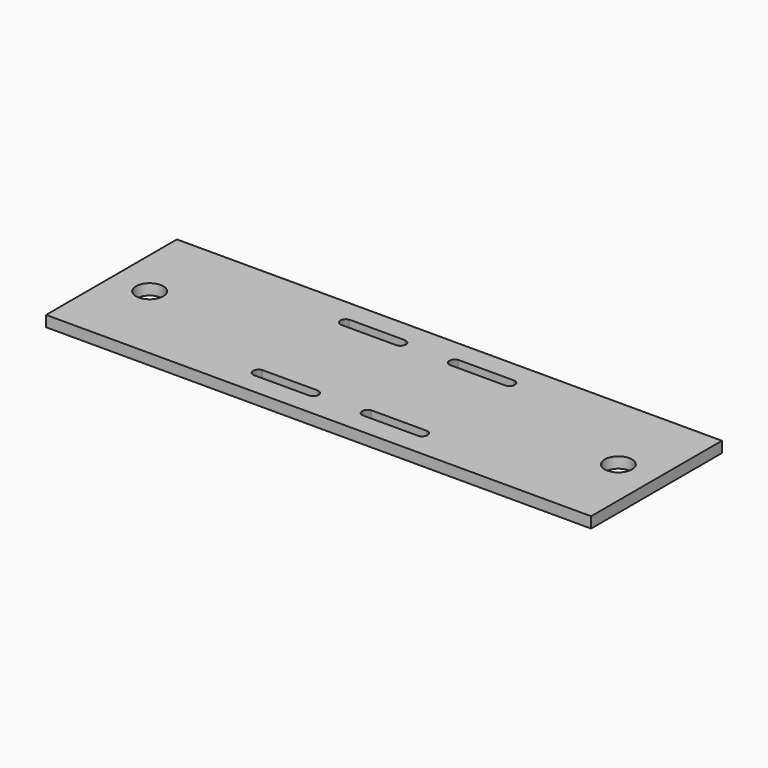
from build123d import *

# Parameters (mm, degrees)
PAD_DEPTH = 2


with BuildPart() as part:
    # Sketch → Pad (new body)
    with BuildSketch(Plane(origin=(0, 0, 0), x_dir=(-1, 0, 0), z_dir=(0, 0, 1))):
        with BuildLine():
            add(Edge.make_bspline(
                [(0, 0), (-100, 0)],
                knots=[0, 0, 100, 100], degree=1))
            add(Edge.make_bspline(
                [(-100, 0), (-100, 30)],
                knots=[0, 0, 30, 30], degree=1))
            add(Edge.make_bspline(
                [(-100, 30), (0, 30)],
                knots=[0, 0, 100, 100], degree=1))
            add(Edge.make_bspline(
                [(0, 30), (0, 0)],
                knots=[0, 0, 30, 30], degree=1))
        make_face()
        with BuildLine():
            add(Edge.make_bspline(
                [(-9.5, 15), (-9.5, 10.669873), (-5.75, 12.834936), (-2, 15), (-5.75, 17.165064), (-9.5, 19.330127), (-9.5, 15)],
                knots=[0, 0, 0, 2.094395, 2.094395, 4.18879, 4.18879, 6.283185, 6.283185, 6.283185], degree=2, weights=[1, 0.5, 1, 0.5, 1, 0.5, 1]))
        make_face(mode=Mode.SUBTRACT)
        with BuildLine():
            add(Edge.make_bspline(
                [(-95.5, 15), (-95.5, 10.669873), (-91.75, 12.834936), (-88, 15), (-91.75, 17.165064), (-95.5, 19.330127), (-95.5, 15)],
                knots=[0, 0, 0, 2.094395, 2.094395, 4.18879, 4.18879, 6.283185, 6.283185, 6.283185], degree=2, weights=[1, 0.5, 1, 0.5, 1, 0.5, 1]))
        make_face(mode=Mode.SUBTRACT)
        with BuildLine():
            add(Edge.make_bspline(
                [(-35, 6), (-34.9128, 5.9962)],
                knots=[0, 0, 0.087283, 0.087283], degree=1))
            add(Edge.make_bspline(
                [(-34.9128, 5.9962), (-34.8264, 5.9848)],
                knots=[0, 0, 0.087149, 0.087149], degree=1))
            add(Edge.make_bspline(
                [(-34.8264, 5.9848), (-34.7412, 5.9659)],
                knots=[0, 0, 0.087271, 0.087271], degree=1))
            add(Edge.make_bspline(
                [(-34.7412, 5.9659), (-34.658, 5.9397)],
                knots=[0, 0, 0.087228, 0.087228], degree=1))
            add(Edge.make_bspline(
                [(-34.658, 5.9397), (-34.5774, 5.9063)],
                knots=[0, 0, 0.087246, 0.087246], degree=1))
            add(Edge.make_bspline(
                [(-34.5774, 5.9063), (-34.5, 5.866)],
                knots=[0, 0, 0.087263, 0.087263], degree=1))
            add(Edge.make_bspline(
                [(-34.5, 5.866), (-34.4264, 5.8192)],
                knots=[0, 0, 0.087219, 0.087219], degree=1))
            add(Edge.make_bspline(
                [(-34.4264, 5.8192), (-34.3572, 5.766)],
                knots=[0, 0, 0.087286, 0.087286], degree=1))
            add(Edge.make_bspline(
                [(-34.3572, 5.766), (-34.2929, 5.7071)],
                knots=[0, 0, 0.087199, 0.087199], degree=1))
            add(Edge.make_bspline(
                [(-34.2929, 5.7071), (-34.234, 5.6428)],
                knots=[0, 0, 0.087199, 0.087199], degree=1))
            add(Edge.make_bspline(
                [(-34.234, 5.6428), (-34.1808, 5.5736)],
                knots=[0, 0, 0.087286, 0.087286], degree=1))
            add(Edge.make_bspline(
                [(-34.1808, 5.5736), (-34.134, 5.5)],
                knots=[0, 0, 0.087219, 0.087219], degree=1))
            add(Edge.make_bspline(
                [(-34.134, 5.5), (-34.0937, 5.4226)],
                knots=[0, 0, 0.087263, 0.087263], degree=1))
            add(Edge.make_bspline(
                [(-34.0937, 5.4226), (-34.0603, 5.342)],
                knots=[0, 0, 0.087246, 0.087246], degree=1))
            add(Edge.make_bspline(
                [(-34.0603, 5.342), (-34.0341, 5.2588)],
                knots=[0, 0, 0.087228, 0.087228], degree=1))
            add(Edge.make_bspline(
                [(-34.0341, 5.2588), (-34.0152, 5.1736)],
                knots=[0, 0, 0.087271, 0.087271], degree=1))
            add(Edge.make_bspline(
                [(-34.0152, 5.1736), (-34.0038, 5.0872)],
                knots=[0, 0, 0.087149, 0.087149], degree=1))
            add(Edge.make_bspline(
                [(-34.0038, 5.0872), (-34, 5)],
                knots=[0, 0, 0.087283, 0.087283], degree=1))
            add(Edge.make_bspline(
                [(-34, 5), (-34.0038, 4.9128)],
                knots=[0, 0, 0.087283, 0.087283], degree=1))
            add(Edge.make_bspline(
                [(-34.0038, 4.9128), (-34.0152, 4.8264)],
                knots=[0, 0, 0.087149, 0.087149], degree=1))
            add(Edge.make_bspline(
                [(-34.0152, 4.8264), (-34.0341, 4.7412)],
                knots=[0, 0, 0.087271, 0.087271], degree=1))
            add(Edge.make_bspline(
                [(-34.0341, 4.7412), (-34.0603, 4.658)],
                knots=[0, 0, 0.087228, 0.087228], degree=1))
            add(Edge.make_bspline(
                [(-34.0603, 4.658), (-34.0937, 4.5774)],
                knots=[0, 0, 0.087246, 0.087246], degree=1))
            add(Edge.make_bspline(
                [(-34.0937, 4.5774), (-34.134, 4.5)],
                knots=[0, 0, 0.087263, 0.087263], degree=1))
            add(Edge.make_bspline(
                [(-34.134, 4.5), (-34.1808, 4.4264)],
                knots=[0, 0, 0.087219, 0.087219], degree=1))
            add(Edge.make_bspline(
                [(-34.1808, 4.4264), (-34.234, 4.3572)],
                knots=[0, 0, 0.087286, 0.087286], degree=1))
            add(Edge.make_bspline(
                [(-34.234, 4.3572), (-34.2929, 4.2929)],
                knots=[0, 0, 0.087199, 0.087199], degree=1))
            add(Edge.make_bspline(
                [(-34.2929, 4.2929), (-34.3572, 4.234)],
                knots=[0, 0, 0.087199, 0.087199], degree=1))
            add(Edge.make_bspline(
                [(-34.3572, 4.234), (-34.4264, 4.1808)],
                knots=[0, 0, 0.087286, 0.087286], degree=1))
            add(Edge.make_bspline(
                [(-34.4264, 4.1808), (-34.5, 4.134)],
                knots=[0, 0, 0.087219, 0.087219], degree=1))
            add(Edge.make_bspline(
                [(-34.5, 4.134), (-34.5774, 4.0937)],
                knots=[0, 0, 0.087263, 0.087263], degree=1))
            add(Edge.make_bspline(
                [(-34.5774, 4.0937), (-34.658, 4.0603)],
                knots=[0, 0, 0.087246, 0.087246], degree=1))
            add(Edge.make_bspline(
                [(-34.658, 4.0603), (-34.7412, 4.0341)],
                knots=[0, 0, 0.087228, 0.087228], degree=1))
            add(Edge.make_bspline(
                [(-34.7412, 4.0341), (-34.8264, 4.0152)],
                knots=[0, 0, 0.087271, 0.087271], degree=1))
            add(Edge.make_bspline(
                [(-34.8264, 4.0152), (-34.9128, 4.0038)],
                knots=[0, 0, 0.087149, 0.087149], degree=1))
            add(Edge.make_bspline(
                [(-34.9128, 4.0038), (-45, 4)],
                knots=[0, 0, 10.087201, 10.087201], degree=1))
            add(Edge.make_bspline(
                [(-45, 4), (-45.0872, 4.0038)],
                knots=[0, 0, 0.087283, 0.087283], degree=1))
            add(Edge.make_bspline(
                [(-45.0872, 4.0038), (-45.1736, 4.0152)],
                knots=[0, 0, 0.087149, 0.087149], degree=1))
            add(Edge.make_bspline(
                [(-45.1736, 4.0152), (-45.2588, 4.0341)],
                knots=[0, 0, 0.087271, 0.087271], degree=1))
            add(Edge.make_bspline(
                [(-45.2588, 4.0341), (-45.342, 4.0603)],
                knots=[0, 0, 0.087228, 0.087228], degree=1))
            add(Edge.make_bspline(
                [(-45.342, 4.0603), (-45.4226, 4.0937)],
                knots=[0, 0, 0.087246, 0.087246], degree=1))
            add(Edge.make_bspline(
                [(-45.4226, 4.0937), (-45.5, 4.134)],
                knots=[0, 0, 0.087263, 0.087263], degree=1))
            add(Edge.make_bspline(
                [(-45.5, 4.134), (-45.5736, 4.1808)],
                knots=[0, 0, 0.087219, 0.087219], degree=1))
            add(Edge.make_bspline(
                [(-45.5736, 4.1808), (-45.6428, 4.234)],
                knots=[0, 0, 0.087286, 0.087286], degree=1))
            add(Edge.make_bspline(
                [(-45.6428, 4.234), (-45.7071, 4.2929)],
                knots=[0, 0, 0.087199, 0.087199], degree=1))
            add(Edge.make_bspline(
                [(-45.7071, 4.2929), (-45.766, 4.3572)],
                knots=[0, 0, 0.087199, 0.087199], degree=1))
            add(Edge.make_bspline(
                [(-45.766, 4.3572), (-45.8192, 4.4264)],
                knots=[0, 0, 0.087286, 0.087286], degree=1))
            add(Edge.make_bspline(
                [(-45.8192, 4.4264), (-45.866, 4.5)],
                knots=[0, 0, 0.087219, 0.087219], degree=1))
            add(Edge.make_bspline(
                [(-45.866, 4.5), (-45.9063, 4.5774)],
                knots=[0, 0, 0.087263, 0.087263], degree=1))
            add(Edge.make_bspline(
                [(-45.9063, 4.5774), (-45.9397, 4.658)],
                knots=[0, 0, 0.087246, 0.087246], degree=1))
            add(Edge.make_bspline(
                [(-45.9397, 4.658), (-45.9659, 4.7412)],
                knots=[0, 0, 0.087228, 0.087228], degree=1))
            add(Edge.make_bspline(
                [(-45.9659, 4.7412), (-45.9848, 4.8264)],
                knots=[0, 0, 0.087271, 0.087271], degree=1))
            add(Edge.make_bspline(
                [(-45.9848, 4.8264), (-45.9962, 4.9128)],
                knots=[0, 0, 0.087149, 0.087149], degree=1))
            add(Edge.make_bspline(
                [(-45.9962, 4.9128), (-46, 5)],
                knots=[0, 0, 0.087283, 0.087283], degree=1))
            add(Edge.make_bspline(
                [(-46, 5), (-45.9962, 5.0872)],
                knots=[0, 0, 0.087283, 0.087283], degree=1))
            add(Edge.make_bspline(
                [(-45.9962, 5.0872), (-45.9848, 5.1736)],
                knots=[0, 0, 0.087149, 0.087149], degree=1))
            add(Edge.make_bspline(
                [(-45.9848, 5.1736), (-45.9659, 5.2588)],
                knots=[0, 0, 0.087271, 0.087271], degree=1))
            add(Edge.make_bspline(
                [(-45.9659, 5.2588), (-45.9397, 5.342)],
                knots=[0, 0, 0.087228, 0.087228], degree=1))
            add(Edge.make_bspline(
                [(-45.9397, 5.342), (-45.9063, 5.4226)],
                knots=[0, 0, 0.087246, 0.087246], degree=1))
            add(Edge.make_bspline(
                [(-45.9063, 5.4226), (-45.866, 5.5)],
                knots=[0, 0, 0.087263, 0.087263], degree=1))
            add(Edge.make_bspline(
                [(-45.866, 5.5), (-45.8192, 5.5736)],
                knots=[0, 0, 0.087219, 0.087219], degree=1))
            add(Edge.make_bspline(
                [(-45.8192, 5.5736), (-45.766, 5.6428)],
                knots=[0, 0, 0.087286, 0.087286], degree=1))
            add(Edge.make_bspline(
                [(-45.766, 5.6428), (-45.7071, 5.7071)],
                knots=[0, 0, 0.087199, 0.087199], degree=1))
            add(Edge.make_bspline(
                [(-45.7071, 5.7071), (-45.6428, 5.766)],
                knots=[0, 0, 0.087199, 0.087199], degree=1))
            add(Edge.make_bspline(
                [(-45.6428, 5.766), (-45.5736, 5.8192)],
                knots=[0, 0, 0.087286, 0.087286], degree=1))
            add(Edge.make_bspline(
                [(-45.5736, 5.8192), (-45.5, 5.866)],
                knots=[0, 0, 0.087219, 0.087219], degree=1))
            add(Edge.make_bspline(
                [(-45.5, 5.866), (-45.4226, 5.9063)],
                knots=[0, 0, 0.087263, 0.087263], degree=1))
            add(Edge.make_bspline(
                [(-45.4226, 5.9063), (-45.342, 5.9397)],
                knots=[0, 0, 0.087246, 0.087246], degree=1))
            add(Edge.make_bspline(
                [(-45.342, 5.9397), (-45.2588, 5.9659)],
                knots=[0, 0, 0.087228, 0.087228], degree=1))
            add(Edge.make_bspline(
                [(-45.2588, 5.9659), (-45.1736, 5.9848)],
                knots=[0, 0, 0.087271, 0.087271], degree=1))
            add(Edge.make_bspline(
                [(-45.1736, 5.9848), (-45.0872, 5.9962)],
                knots=[0, 0, 0.087149, 0.087149], degree=1))
            add(Edge.make_bspline(
                [(-45.0872, 5.9962), (-35, 6)],
                knots=[0, 0, 10.087201, 10.087201], degree=1))
        make_face(mode=Mode.SUBTRACT)
        with BuildLine():
            add(Edge.make_bspline(
                [(-55, 6), (-54.9128, 5.9962)],
                knots=[0, 0, 0.087283, 0.087283], degree=1))
            add(Edge.make_bspline(
                [(-54.9128, 5.9962), (-54.8264, 5.9848)],
                knots=[0, 0, 0.087149, 0.087149], degree=1))
            add(Edge.make_bspline(
                [(-54.8264, 5.9848), (-54.7412, 5.9659)],
                knots=[0, 0, 0.087271, 0.087271], degree=1))
            add(Edge.make_bspline(
                [(-54.7412, 5.9659), (-54.658, 5.9397)],
                knots=[0, 0, 0.087228, 0.087228], degree=1))
            add(Edge.make_bspline(
                [(-54.658, 5.9397), (-54.5774, 5.9063)],
                knots=[0, 0, 0.087246, 0.087246], degree=1))
            add(Edge.make_bspline(
                [(-54.5774, 5.9063), (-54.5, 5.866)],
                knots=[0, 0, 0.087263, 0.087263], degree=1))
            add(Edge.make_bspline(
                [(-54.5, 5.866), (-54.4264, 5.8192)],
                knots=[0, 0, 0.087219, 0.087219], degree=1))
            add(Edge.make_bspline(
                [(-54.4264, 5.8192), (-54.3572, 5.766)],
                knots=[0, 0, 0.087286, 0.087286], degree=1))
            add(Edge.make_bspline(
                [(-54.3572, 5.766), (-54.2929, 5.7071)],
                knots=[0, 0, 0.087199, 0.087199], degree=1))
            add(Edge.make_bspline(
                [(-54.2929, 5.7071), (-54.234, 5.6428)],
                knots=[0, 0, 0.087199, 0.087199], degree=1))
            add(Edge.make_bspline(
                [(-54.234, 5.6428), (-54.1808, 5.5736)],
                knots=[0, 0, 0.087286, 0.087286], degree=1))
            add(Edge.make_bspline(
                [(-54.1808, 5.5736), (-54.134, 5.5)],
                knots=[0, 0, 0.087219, 0.087219], degree=1))
            add(Edge.make_bspline(
                [(-54.134, 5.5), (-54.0937, 5.4226)],
                knots=[0, 0, 0.087263, 0.087263], degree=1))
            add(Edge.make_bspline(
                [(-54.0937, 5.4226), (-54.0603, 5.342)],
                knots=[0, 0, 0.087246, 0.087246], degree=1))
            add(Edge.make_bspline(
                [(-54.0603, 5.342), (-54.0341, 5.2588)],
                knots=[0, 0, 0.087228, 0.087228], degree=1))
            add(Edge.make_bspline(
                [(-54.0341, 5.2588), (-54.0152, 5.1736)],
                knots=[0, 0, 0.087271, 0.087271], degree=1))
            add(Edge.make_bspline(
                [(-54.0152, 5.1736), (-54.0038, 5.0872)],
                knots=[0, 0, 0.087149, 0.087149], degree=1))
            add(Edge.make_bspline(
                [(-54.0038, 5.0872), (-54, 5)],
                knots=[0, 0, 0.087283, 0.087283], degree=1))
            add(Edge.make_bspline(
                [(-54, 5), (-54.0038, 4.9128)],
                knots=[0, 0, 0.087283, 0.087283], degree=1))
            add(Edge.make_bspline(
                [(-54.0038, 4.9128), (-54.0152, 4.8264)],
                knots=[0, 0, 0.087149, 0.087149], degree=1))
            add(Edge.make_bspline(
                [(-54.0152, 4.8264), (-54.0341, 4.7412)],
                knots=[0, 0, 0.087271, 0.087271], degree=1))
            add(Edge.make_bspline(
                [(-54.0341, 4.7412), (-54.0603, 4.658)],
                knots=[0, 0, 0.087228, 0.087228], degree=1))
            add(Edge.make_bspline(
                [(-54.0603, 4.658), (-54.0937, 4.5774)],
                knots=[0, 0, 0.087246, 0.087246], degree=1))
            add(Edge.make_bspline(
                [(-54.0937, 4.5774), (-54.134, 4.5)],
                knots=[0, 0, 0.087263, 0.087263], degree=1))
            add(Edge.make_bspline(
                [(-54.134, 4.5), (-54.1808, 4.4264)],
                knots=[0, 0, 0.087219, 0.087219], degree=1))
            add(Edge.make_bspline(
                [(-54.1808, 4.4264), (-54.234, 4.3572)],
                knots=[0, 0, 0.087286, 0.087286], degree=1))
            add(Edge.make_bspline(
                [(-54.234, 4.3572), (-54.2929, 4.2929)],
                knots=[0, 0, 0.087199, 0.087199], degree=1))
            add(Edge.make_bspline(
                [(-54.2929, 4.2929), (-54.3572, 4.234)],
                knots=[0, 0, 0.087199, 0.087199], degree=1))
            add(Edge.make_bspline(
                [(-54.3572, 4.234), (-54.4264, 4.1808)],
                knots=[0, 0, 0.087286, 0.087286], degree=1))
            add(Edge.make_bspline(
                [(-54.4264, 4.1808), (-54.5, 4.134)],
                knots=[0, 0, 0.087219, 0.087219], degree=1))
            add(Edge.make_bspline(
                [(-54.5, 4.134), (-54.5774, 4.0937)],
                knots=[0, 0, 0.087263, 0.087263], degree=1))
            add(Edge.make_bspline(
                [(-54.5774, 4.0937), (-54.658, 4.0603)],
                knots=[0, 0, 0.087246, 0.087246], degree=1))
            add(Edge.make_bspline(
                [(-54.658, 4.0603), (-54.7412, 4.0341)],
                knots=[0, 0, 0.087228, 0.087228], degree=1))
            add(Edge.make_bspline(
                [(-54.7412, 4.0341), (-54.8264, 4.0152)],
                knots=[0, 0, 0.087271, 0.087271], degree=1))
            add(Edge.make_bspline(
                [(-54.8264, 4.0152), (-54.9128, 4.0038)],
                knots=[0, 0, 0.087149, 0.087149], degree=1))
            add(Edge.make_bspline(
                [(-54.9128, 4.0038), (-65, 4)],
                knots=[0, 0, 10.087201, 10.087201], degree=1))
            add(Edge.make_bspline(
                [(-65, 4), (-65.0872, 4.0038)],
                knots=[0, 0, 0.087283, 0.087283], degree=1))
            add(Edge.make_bspline(
                [(-65.0872, 4.0038), (-65.1736, 4.0152)],
                knots=[0, 0, 0.087149, 0.087149], degree=1))
            add(Edge.make_bspline(
                [(-65.1736, 4.0152), (-65.2588, 4.0341)],
                knots=[0, 0, 0.087271, 0.087271], degree=1))
            add(Edge.make_bspline(
                [(-65.2588, 4.0341), (-65.342, 4.0603)],
                knots=[0, 0, 0.087228, 0.087228], degree=1))
            add(Edge.make_bspline(
                [(-65.342, 4.0603), (-65.4226, 4.0937)],
                knots=[0, 0, 0.087246, 0.087246], degree=1))
            add(Edge.make_bspline(
                [(-65.4226, 4.0937), (-65.5, 4.134)],
                knots=[0, 0, 0.087263, 0.087263], degree=1))
            add(Edge.make_bspline(
                [(-65.5, 4.134), (-65.5736, 4.1808)],
                knots=[0, 0, 0.087219, 0.087219], degree=1))
            add(Edge.make_bspline(
                [(-65.5736, 4.1808), (-65.6428, 4.234)],
                knots=[0, 0, 0.087286, 0.087286], degree=1))
            add(Edge.make_bspline(
                [(-65.6428, 4.234), (-65.7071, 4.2929)],
                knots=[0, 0, 0.087199, 0.087199], degree=1))
            add(Edge.make_bspline(
                [(-65.7071, 4.2929), (-65.766, 4.3572)],
                knots=[0, 0, 0.087199, 0.087199], degree=1))
            add(Edge.make_bspline(
                [(-65.766, 4.3572), (-65.8192, 4.4264)],
                knots=[0, 0, 0.087286, 0.087286], degree=1))
            add(Edge.make_bspline(
                [(-65.8192, 4.4264), (-65.866, 4.5)],
                knots=[0, 0, 0.087219, 0.087219], degree=1))
            add(Edge.make_bspline(
                [(-65.866, 4.5), (-65.9063, 4.5774)],
                knots=[0, 0, 0.087263, 0.087263], degree=1))
            add(Edge.make_bspline(
                [(-65.9063, 4.5774), (-65.9397, 4.658)],
                knots=[0, 0, 0.087246, 0.087246], degree=1))
            add(Edge.make_bspline(
                [(-65.9397, 4.658), (-65.9659, 4.7412)],
                knots=[0, 0, 0.087228, 0.087228], degree=1))
            add(Edge.make_bspline(
                [(-65.9659, 4.7412), (-65.9848, 4.8264)],
                knots=[0, 0, 0.087271, 0.087271], degree=1))
            add(Edge.make_bspline(
                [(-65.9848, 4.8264), (-65.9962, 4.9128)],
                knots=[0, 0, 0.087149, 0.087149], degree=1))
            add(Edge.make_bspline(
                [(-65.9962, 4.9128), (-66, 5)],
                knots=[0, 0, 0.087283, 0.087283], degree=1))
            add(Edge.make_bspline(
                [(-66, 5), (-65.9962, 5.0872)],
                knots=[0, 0, 0.087283, 0.087283], degree=1))
            add(Edge.make_bspline(
                [(-65.9962, 5.0872), (-65.9848, 5.1736)],
                knots=[0, 0, 0.087149, 0.087149], degree=1))
            add(Edge.make_bspline(
                [(-65.9848, 5.1736), (-65.9659, 5.2588)],
                knots=[0, 0, 0.087271, 0.087271], degree=1))
            add(Edge.make_bspline(
                [(-65.9659, 5.2588), (-65.9397, 5.342)],
                knots=[0, 0, 0.087228, 0.087228], degree=1))
            add(Edge.make_bspline(
                [(-65.9397, 5.342), (-65.9063, 5.4226)],
                knots=[0, 0, 0.087246, 0.087246], degree=1))
            add(Edge.make_bspline(
                [(-65.9063, 5.4226), (-65.866, 5.5)],
                knots=[0, 0, 0.087263, 0.087263], degree=1))
            add(Edge.make_bspline(
                [(-65.866, 5.5), (-65.8192, 5.5736)],
                knots=[0, 0, 0.087219, 0.087219], degree=1))
            add(Edge.make_bspline(
                [(-65.8192, 5.5736), (-65.766, 5.6428)],
                knots=[0, 0, 0.087286, 0.087286], degree=1))
            add(Edge.make_bspline(
                [(-65.766, 5.6428), (-65.7071, 5.7071)],
                knots=[0, 0, 0.087199, 0.087199], degree=1))
            add(Edge.make_bspline(
                [(-65.7071, 5.7071), (-65.6428, 5.766)],
                knots=[0, 0, 0.087199, 0.087199], degree=1))
            add(Edge.make_bspline(
                [(-65.6428, 5.766), (-65.5736, 5.8192)],
                knots=[0, 0, 0.087286, 0.087286], degree=1))
            add(Edge.make_bspline(
                [(-65.5736, 5.8192), (-65.5, 5.866)],
                knots=[0, 0, 0.087219, 0.087219], degree=1))
            add(Edge.make_bspline(
                [(-65.5, 5.866), (-65.4226, 5.9063)],
                knots=[0, 0, 0.087263, 0.087263], degree=1))
            add(Edge.make_bspline(
                [(-65.4226, 5.9063), (-65.342, 5.9397)],
                knots=[0, 0, 0.087246, 0.087246], degree=1))
            add(Edge.make_bspline(
                [(-65.342, 5.9397), (-65.2588, 5.9659)],
                knots=[0, 0, 0.087228, 0.087228], degree=1))
            add(Edge.make_bspline(
                [(-65.2588, 5.9659), (-65.1736, 5.9848)],
                knots=[0, 0, 0.087271, 0.087271], degree=1))
            add(Edge.make_bspline(
                [(-65.1736, 5.9848), (-65.0872, 5.9962)],
                knots=[0, 0, 0.087149, 0.087149], degree=1))
            add(Edge.make_bspline(
                [(-65.0872, 5.9962), (-55, 6)],
                knots=[0, 0, 10.087201, 10.087201], degree=1))
        make_face(mode=Mode.SUBTRACT)
        with BuildLine():
            add(Edge.make_bspline(
                [(-35, 26), (-34.9128, 25.9962)],
                knots=[0, 0, 0.087283, 0.087283], degree=1))
            add(Edge.make_bspline(
                [(-34.9128, 25.9962), (-34.8264, 25.9848)],
                knots=[0, 0, 0.087149, 0.087149], degree=1))
            add(Edge.make_bspline(
                [(-34.8264, 25.9848), (-34.7412, 25.9659)],
                knots=[0, 0, 0.087271, 0.087271], degree=1))
            add(Edge.make_bspline(
                [(-34.7412, 25.9659), (-34.658, 25.9397)],
                knots=[0, 0, 0.087228, 0.087228], degree=1))
            add(Edge.make_bspline(
                [(-34.658, 25.9397), (-34.5774, 25.9063)],
                knots=[0, 0, 0.087246, 0.087246], degree=1))
            add(Edge.make_bspline(
                [(-34.5774, 25.9063), (-34.5, 25.866)],
                knots=[0, 0, 0.087263, 0.087263], degree=1))
            add(Edge.make_bspline(
                [(-34.5, 25.866), (-34.4264, 25.8192)],
                knots=[0, 0, 0.087219, 0.087219], degree=1))
            add(Edge.make_bspline(
                [(-34.4264, 25.8192), (-34.3572, 25.766)],
                knots=[0, 0, 0.087286, 0.087286], degree=1))
            add(Edge.make_bspline(
                [(-34.3572, 25.766), (-34.2929, 25.7071)],
                knots=[0, 0, 0.087199, 0.087199], degree=1))
            add(Edge.make_bspline(
                [(-34.2929, 25.7071), (-34.234, 25.6428)],
                knots=[0, 0, 0.087199, 0.087199], degree=1))
            add(Edge.make_bspline(
                [(-34.234, 25.6428), (-34.1808, 25.5736)],
                knots=[0, 0, 0.087286, 0.087286], degree=1))
            add(Edge.make_bspline(
                [(-34.1808, 25.5736), (-34.134, 25.5)],
                knots=[0, 0, 0.087219, 0.087219], degree=1))
            add(Edge.make_bspline(
                [(-34.134, 25.5), (-34.0937, 25.4226)],
                knots=[0, 0, 0.087263, 0.087263], degree=1))
            add(Edge.make_bspline(
                [(-34.0937, 25.4226), (-34.0603, 25.342)],
                knots=[0, 0, 0.087246, 0.087246], degree=1))
            add(Edge.make_bspline(
                [(-34.0603, 25.342), (-34.0341, 25.2588)],
                knots=[0, 0, 0.087228, 0.087228], degree=1))
            add(Edge.make_bspline(
                [(-34.0341, 25.2588), (-34.0152, 25.1736)],
                knots=[0, 0, 0.087271, 0.087271], degree=1))
            add(Edge.make_bspline(
                [(-34.0152, 25.1736), (-34.0038, 25.0872)],
                knots=[0, 0, 0.087149, 0.087149], degree=1))
            add(Edge.make_bspline(
                [(-34.0038, 25.0872), (-34, 25)],
                knots=[0, 0, 0.087283, 0.087283], degree=1))
            add(Edge.make_bspline(
                [(-34, 25), (-34.0038, 24.9128)],
                knots=[0, 0, 0.087283, 0.087283], degree=1))
            add(Edge.make_bspline(
                [(-34.0038, 24.9128), (-34.0152, 24.8264)],
                knots=[0, 0, 0.087149, 0.087149], degree=1))
            add(Edge.make_bspline(
                [(-34.0152, 24.8264), (-34.0341, 24.7412)],
                knots=[0, 0, 0.087271, 0.087271], degree=1))
            add(Edge.make_bspline(
                [(-34.0341, 24.7412), (-34.0603, 24.658)],
                knots=[0, 0, 0.087228, 0.087228], degree=1))
            add(Edge.make_bspline(
                [(-34.0603, 24.658), (-34.0937, 24.5774)],
                knots=[0, 0, 0.087246, 0.087246], degree=1))
            add(Edge.make_bspline(
                [(-34.0937, 24.5774), (-34.134, 24.5)],
                knots=[0, 0, 0.087263, 0.087263], degree=1))
            add(Edge.make_bspline(
                [(-34.134, 24.5), (-34.1808, 24.4264)],
                knots=[0, 0, 0.087219, 0.087219], degree=1))
            add(Edge.make_bspline(
                [(-34.1808, 24.4264), (-34.234, 24.3572)],
                knots=[0, 0, 0.087286, 0.087286], degree=1))
            add(Edge.make_bspline(
                [(-34.234, 24.3572), (-34.2929, 24.2929)],
                knots=[0, 0, 0.087199, 0.087199], degree=1))
            add(Edge.make_bspline(
                [(-34.2929, 24.2929), (-34.3572, 24.234)],
                knots=[0, 0, 0.087199, 0.087199], degree=1))
            add(Edge.make_bspline(
                [(-34.3572, 24.234), (-34.4264, 24.1808)],
                knots=[0, 0, 0.087286, 0.087286], degree=1))
            add(Edge.make_bspline(
                [(-34.4264, 24.1808), (-34.5, 24.134)],
                knots=[0, 0, 0.087219, 0.087219], degree=1))
            add(Edge.make_bspline(
                [(-34.5, 24.134), (-34.5774, 24.0937)],
                knots=[0, 0, 0.087263, 0.087263], degree=1))
            add(Edge.make_bspline(
                [(-34.5774, 24.0937), (-34.658, 24.0603)],
                knots=[0, 0, 0.087246, 0.087246], degree=1))
            add(Edge.make_bspline(
                [(-34.658, 24.0603), (-34.7412, 24.0341)],
                knots=[0, 0, 0.087228, 0.087228], degree=1))
            add(Edge.make_bspline(
                [(-34.7412, 24.0341), (-34.8264, 24.0152)],
                knots=[0, 0, 0.087271, 0.087271], degree=1))
            add(Edge.make_bspline(
                [(-34.8264, 24.0152), (-34.9128, 24.0038)],
                knots=[0, 0, 0.087149, 0.087149], degree=1))
            add(Edge.make_bspline(
                [(-34.9128, 24.0038), (-45, 24)],
                knots=[0, 0, 10.087201, 10.087201], degree=1))
            add(Edge.make_bspline(
                [(-45, 24), (-45.0872, 24.0038)],
                knots=[0, 0, 0.087283, 0.087283], degree=1))
            add(Edge.make_bspline(
                [(-45.0872, 24.0038), (-45.1736, 24.0152)],
                knots=[0, 0, 0.087149, 0.087149], degree=1))
            add(Edge.make_bspline(
                [(-45.1736, 24.0152), (-45.2588, 24.0341)],
                knots=[0, 0, 0.087271, 0.087271], degree=1))
            add(Edge.make_bspline(
                [(-45.2588, 24.0341), (-45.342, 24.0603)],
                knots=[0, 0, 0.087228, 0.087228], degree=1))
            add(Edge.make_bspline(
                [(-45.342, 24.0603), (-45.4226, 24.0937)],
                knots=[0, 0, 0.087246, 0.087246], degree=1))
            add(Edge.make_bspline(
                [(-45.4226, 24.0937), (-45.5, 24.134)],
                knots=[0, 0, 0.087263, 0.087263], degree=1))
            add(Edge.make_bspline(
                [(-45.5, 24.134), (-45.5736, 24.1808)],
                knots=[0, 0, 0.087219, 0.087219], degree=1))
            add(Edge.make_bspline(
                [(-45.5736, 24.1808), (-45.6428, 24.234)],
                knots=[0, 0, 0.087286, 0.087286], degree=1))
            add(Edge.make_bspline(
                [(-45.6428, 24.234), (-45.7071, 24.2929)],
                knots=[0, 0, 0.087199, 0.087199], degree=1))
            add(Edge.make_bspline(
                [(-45.7071, 24.2929), (-45.766, 24.3572)],
                knots=[0, 0, 0.087199, 0.087199], degree=1))
            add(Edge.make_bspline(
                [(-45.766, 24.3572), (-45.8192, 24.4264)],
                knots=[0, 0, 0.087286, 0.087286], degree=1))
            add(Edge.make_bspline(
                [(-45.8192, 24.4264), (-45.866, 24.5)],
                knots=[0, 0, 0.087219, 0.087219], degree=1))
            add(Edge.make_bspline(
                [(-45.866, 24.5), (-45.9063, 24.5774)],
                knots=[0, 0, 0.087263, 0.087263], degree=1))
            add(Edge.make_bspline(
                [(-45.9063, 24.5774), (-45.9397, 24.658)],
                knots=[0, 0, 0.087246, 0.087246], degree=1))
            add(Edge.make_bspline(
                [(-45.9397, 24.658), (-45.9659, 24.7412)],
                knots=[0, 0, 0.087228, 0.087228], degree=1))
            add(Edge.make_bspline(
                [(-45.9659, 24.7412), (-45.9848, 24.8264)],
                knots=[0, 0, 0.087271, 0.087271], degree=1))
            add(Edge.make_bspline(
                [(-45.9848, 24.8264), (-45.9962, 24.9128)],
                knots=[0, 0, 0.087149, 0.087149], degree=1))
            add(Edge.make_bspline(
                [(-45.9962, 24.9128), (-46, 25)],
                knots=[0, 0, 0.087283, 0.087283], degree=1))
            add(Edge.make_bspline(
                [(-46, 25), (-45.9962, 25.0872)],
                knots=[0, 0, 0.087283, 0.087283], degree=1))
            add(Edge.make_bspline(
                [(-45.9962, 25.0872), (-45.9848, 25.1736)],
                knots=[0, 0, 0.087149, 0.087149], degree=1))
            add(Edge.make_bspline(
                [(-45.9848, 25.1736), (-45.9659, 25.2588)],
                knots=[0, 0, 0.087271, 0.087271], degree=1))
            add(Edge.make_bspline(
                [(-45.9659, 25.2588), (-45.9397, 25.342)],
                knots=[0, 0, 0.087228, 0.087228], degree=1))
            add(Edge.make_bspline(
                [(-45.9397, 25.342), (-45.9063, 25.4226)],
                knots=[0, 0, 0.087246, 0.087246], degree=1))
            add(Edge.make_bspline(
                [(-45.9063, 25.4226), (-45.866, 25.5)],
                knots=[0, 0, 0.087263, 0.087263], degree=1))
            add(Edge.make_bspline(
                [(-45.866, 25.5), (-45.8192, 25.5736)],
                knots=[0, 0, 0.087219, 0.087219], degree=1))
            add(Edge.make_bspline(
                [(-45.8192, 25.5736), (-45.766, 25.6428)],
                knots=[0, 0, 0.087286, 0.087286], degree=1))
            add(Edge.make_bspline(
                [(-45.766, 25.6428), (-45.7071, 25.7071)],
                knots=[0, 0, 0.087199, 0.087199], degree=1))
            add(Edge.make_bspline(
                [(-45.7071, 25.7071), (-45.6428, 25.766)],
                knots=[0, 0, 0.087199, 0.087199], degree=1))
            add(Edge.make_bspline(
                [(-45.6428, 25.766), (-45.5736, 25.8192)],
                knots=[0, 0, 0.087286, 0.087286], degree=1))
            add(Edge.make_bspline(
                [(-45.5736, 25.8192), (-45.5, 25.866)],
                knots=[0, 0, 0.087219, 0.087219], degree=1))
            add(Edge.make_bspline(
                [(-45.5, 25.866), (-45.4226, 25.9063)],
                knots=[0, 0, 0.087263, 0.087263], degree=1))
            add(Edge.make_bspline(
                [(-45.4226, 25.9063), (-45.342, 25.9397)],
                knots=[0, 0, 0.087246, 0.087246], degree=1))
            add(Edge.make_bspline(
                [(-45.342, 25.9397), (-45.2588, 25.9659)],
                knots=[0, 0, 0.087228, 0.087228], degree=1))
            add(Edge.make_bspline(
                [(-45.2588, 25.9659), (-45.1736, 25.9848)],
                knots=[0, 0, 0.087271, 0.087271], degree=1))
            add(Edge.make_bspline(
                [(-45.1736, 25.9848), (-45.0872, 25.9962)],
                knots=[0, 0, 0.087149, 0.087149], degree=1))
            add(Edge.make_bspline(
                [(-45.0872, 25.9962), (-35, 26)],
                knots=[0, 0, 10.087201, 10.087201], degree=1))
        make_face(mode=Mode.SUBTRACT)
        with BuildLine():
            add(Edge.make_bspline(
                [(-55, 26), (-54.9128, 25.9962)],
                knots=[0, 0, 0.087283, 0.087283], degree=1))
            add(Edge.make_bspline(
                [(-54.9128, 25.9962), (-54.8264, 25.9848)],
                knots=[0, 0, 0.087149, 0.087149], degree=1))
            add(Edge.make_bspline(
                [(-54.8264, 25.9848), (-54.7412, 25.9659)],
                knots=[0, 0, 0.087271, 0.087271], degree=1))
            add(Edge.make_bspline(
                [(-54.7412, 25.9659), (-54.658, 25.9397)],
                knots=[0, 0, 0.087228, 0.087228], degree=1))
            add(Edge.make_bspline(
                [(-54.658, 25.9397), (-54.5774, 25.9063)],
                knots=[0, 0, 0.087246, 0.087246], degree=1))
            add(Edge.make_bspline(
                [(-54.5774, 25.9063), (-54.5, 25.866)],
                knots=[0, 0, 0.087263, 0.087263], degree=1))
            add(Edge.make_bspline(
                [(-54.5, 25.866), (-54.4264, 25.8192)],
                knots=[0, 0, 0.087219, 0.087219], degree=1))
            add(Edge.make_bspline(
                [(-54.4264, 25.8192), (-54.3572, 25.766)],
                knots=[0, 0, 0.087286, 0.087286], degree=1))
            add(Edge.make_bspline(
                [(-54.3572, 25.766), (-54.2929, 25.7071)],
                knots=[0, 0, 0.087199, 0.087199], degree=1))
            add(Edge.make_bspline(
                [(-54.2929, 25.7071), (-54.234, 25.6428)],
                knots=[0, 0, 0.087199, 0.087199], degree=1))
            add(Edge.make_bspline(
                [(-54.234, 25.6428), (-54.1808, 25.5736)],
                knots=[0, 0, 0.087286, 0.087286], degree=1))
            add(Edge.make_bspline(
                [(-54.1808, 25.5736), (-54.134, 25.5)],
                knots=[0, 0, 0.087219, 0.087219], degree=1))
            add(Edge.make_bspline(
                [(-54.134, 25.5), (-54.0937, 25.4226)],
                knots=[0, 0, 0.087263, 0.087263], degree=1))
            add(Edge.make_bspline(
                [(-54.0937, 25.4226), (-54.0603, 25.342)],
                knots=[0, 0, 0.087246, 0.087246], degree=1))
            add(Edge.make_bspline(
                [(-54.0603, 25.342), (-54.0341, 25.2588)],
                knots=[0, 0, 0.087228, 0.087228], degree=1))
            add(Edge.make_bspline(
                [(-54.0341, 25.2588), (-54.0152, 25.1736)],
                knots=[0, 0, 0.087271, 0.087271], degree=1))
            add(Edge.make_bspline(
                [(-54.0152, 25.1736), (-54.0038, 25.0872)],
                knots=[0, 0, 0.087149, 0.087149], degree=1))
            add(Edge.make_bspline(
                [(-54.0038, 25.0872), (-54, 25)],
                knots=[0, 0, 0.087283, 0.087283], degree=1))
            add(Edge.make_bspline(
                [(-54, 25), (-54.0038, 24.9128)],
                knots=[0, 0, 0.087283, 0.087283], degree=1))
            add(Edge.make_bspline(
                [(-54.0038, 24.9128), (-54.0152, 24.8264)],
                knots=[0, 0, 0.087149, 0.087149], degree=1))
            add(Edge.make_bspline(
                [(-54.0152, 24.8264), (-54.0341, 24.7412)],
                knots=[0, 0, 0.087271, 0.087271], degree=1))
            add(Edge.make_bspline(
                [(-54.0341, 24.7412), (-54.0603, 24.658)],
                knots=[0, 0, 0.087228, 0.087228], degree=1))
            add(Edge.make_bspline(
                [(-54.0603, 24.658), (-54.0937, 24.5774)],
                knots=[0, 0, 0.087246, 0.087246], degree=1))
            add(Edge.make_bspline(
                [(-54.0937, 24.5774), (-54.134, 24.5)],
                knots=[0, 0, 0.087263, 0.087263], degree=1))
            add(Edge.make_bspline(
                [(-54.134, 24.5), (-54.1808, 24.4264)],
                knots=[0, 0, 0.087219, 0.087219], degree=1))
            add(Edge.make_bspline(
                [(-54.1808, 24.4264), (-54.234, 24.3572)],
                knots=[0, 0, 0.087286, 0.087286], degree=1))
            add(Edge.make_bspline(
                [(-54.234, 24.3572), (-54.2929, 24.2929)],
                knots=[0, 0, 0.087199, 0.087199], degree=1))
            add(Edge.make_bspline(
                [(-54.2929, 24.2929), (-54.3572, 24.234)],
                knots=[0, 0, 0.087199, 0.087199], degree=1))
            add(Edge.make_bspline(
                [(-54.3572, 24.234), (-54.4264, 24.1808)],
                knots=[0, 0, 0.087286, 0.087286], degree=1))
            add(Edge.make_bspline(
                [(-54.4264, 24.1808), (-54.5, 24.134)],
                knots=[0, 0, 0.087219, 0.087219], degree=1))
            add(Edge.make_bspline(
                [(-54.5, 24.134), (-54.5774, 24.0937)],
                knots=[0, 0, 0.087263, 0.087263], degree=1))
            add(Edge.make_bspline(
                [(-54.5774, 24.0937), (-54.658, 24.0603)],
                knots=[0, 0, 0.087246, 0.087246], degree=1))
            add(Edge.make_bspline(
                [(-54.658, 24.0603), (-54.7412, 24.0341)],
                knots=[0, 0, 0.087228, 0.087228], degree=1))
            add(Edge.make_bspline(
                [(-54.7412, 24.0341), (-54.8264, 24.0152)],
                knots=[0, 0, 0.087271, 0.087271], degree=1))
            add(Edge.make_bspline(
                [(-54.8264, 24.0152), (-54.9128, 24.0038)],
                knots=[0, 0, 0.087149, 0.087149], degree=1))
            add(Edge.make_bspline(
                [(-54.9128, 24.0038), (-65, 24)],
                knots=[0, 0, 10.087201, 10.087201], degree=1))
            add(Edge.make_bspline(
                [(-65, 24), (-65.0872, 24.0038)],
                knots=[0, 0, 0.087283, 0.087283], degree=1))
            add(Edge.make_bspline(
                [(-65.0872, 24.0038), (-65.1736, 24.0152)],
                knots=[0, 0, 0.087149, 0.087149], degree=1))
            add(Edge.make_bspline(
                [(-65.1736, 24.0152), (-65.2588, 24.0341)],
                knots=[0, 0, 0.087271, 0.087271], degree=1))
            add(Edge.make_bspline(
                [(-65.2588, 24.0341), (-65.342, 24.0603)],
                knots=[0, 0, 0.087228, 0.087228], degree=1))
            add(Edge.make_bspline(
                [(-65.342, 24.0603), (-65.4226, 24.0937)],
                knots=[0, 0, 0.087246, 0.087246], degree=1))
            add(Edge.make_bspline(
                [(-65.4226, 24.0937), (-65.5, 24.134)],
                knots=[0, 0, 0.087263, 0.087263], degree=1))
            add(Edge.make_bspline(
                [(-65.5, 24.134), (-65.5736, 24.1808)],
                knots=[0, 0, 0.087219, 0.087219], degree=1))
            add(Edge.make_bspline(
                [(-65.5736, 24.1808), (-65.6428, 24.234)],
                knots=[0, 0, 0.087286, 0.087286], degree=1))
            add(Edge.make_bspline(
                [(-65.6428, 24.234), (-65.7071, 24.2929)],
                knots=[0, 0, 0.087199, 0.087199], degree=1))
            add(Edge.make_bspline(
                [(-65.7071, 24.2929), (-65.766, 24.3572)],
                knots=[0, 0, 0.087199, 0.087199], degree=1))
            add(Edge.make_bspline(
                [(-65.766, 24.3572), (-65.8192, 24.4264)],
                knots=[0, 0, 0.087286, 0.087286], degree=1))
            add(Edge.make_bspline(
                [(-65.8192, 24.4264), (-65.866, 24.5)],
                knots=[0, 0, 0.087219, 0.087219], degree=1))
            add(Edge.make_bspline(
                [(-65.866, 24.5), (-65.9063, 24.5774)],
                knots=[0, 0, 0.087263, 0.087263], degree=1))
            add(Edge.make_bspline(
                [(-65.9063, 24.5774), (-65.9397, 24.658)],
                knots=[0, 0, 0.087246, 0.087246], degree=1))
            add(Edge.make_bspline(
                [(-65.9397, 24.658), (-65.9659, 24.7412)],
                knots=[0, 0, 0.087228, 0.087228], degree=1))
            add(Edge.make_bspline(
                [(-65.9659, 24.7412), (-65.9848, 24.8264)],
                knots=[0, 0, 0.087271, 0.087271], degree=1))
            add(Edge.make_bspline(
                [(-65.9848, 24.8264), (-65.9962, 24.9128)],
                knots=[0, 0, 0.087149, 0.087149], degree=1))
            add(Edge.make_bspline(
                [(-65.9962, 24.9128), (-66, 25)],
                knots=[0, 0, 0.087283, 0.087283], degree=1))
            add(Edge.make_bspline(
                [(-66, 25), (-65.9962, 25.0872)],
                knots=[0, 0, 0.087283, 0.087283], degree=1))
            add(Edge.make_bspline(
                [(-65.9962, 25.0872), (-65.9848, 25.1736)],
                knots=[0, 0, 0.087149, 0.087149], degree=1))
            add(Edge.make_bspline(
                [(-65.9848, 25.1736), (-65.9659, 25.2588)],
                knots=[0, 0, 0.087271, 0.087271], degree=1))
            add(Edge.make_bspline(
                [(-65.9659, 25.2588), (-65.9397, 25.342)],
                knots=[0, 0, 0.087228, 0.087228], degree=1))
            add(Edge.make_bspline(
                [(-65.9397, 25.342), (-65.9063, 25.4226)],
                knots=[0, 0, 0.087246, 0.087246], degree=1))
            add(Edge.make_bspline(
                [(-65.9063, 25.4226), (-65.866, 25.5)],
                knots=[0, 0, 0.087263, 0.087263], degree=1))
            add(Edge.make_bspline(
                [(-65.866, 25.5), (-65.8192, 25.5736)],
                knots=[0, 0, 0.087219, 0.087219], degree=1))
            add(Edge.make_bspline(
                [(-65.8192, 25.5736), (-65.766, 25.6428)],
                knots=[0, 0, 0.087286, 0.087286], degree=1))
            add(Edge.make_bspline(
                [(-65.766, 25.6428), (-65.7071, 25.7071)],
                knots=[0, 0, 0.087199, 0.087199], degree=1))
            add(Edge.make_bspline(
                [(-65.7071, 25.7071), (-65.6428, 25.766)],
                knots=[0, 0, 0.087199, 0.087199], degree=1))
            add(Edge.make_bspline(
                [(-65.6428, 25.766), (-65.5736, 25.8192)],
                knots=[0, 0, 0.087286, 0.087286], degree=1))
            add(Edge.make_bspline(
                [(-65.5736, 25.8192), (-65.5, 25.866)],
                knots=[0, 0, 0.087219, 0.087219], degree=1))
            add(Edge.make_bspline(
                [(-65.5, 25.866), (-65.4226, 25.9063)],
                knots=[0, 0, 0.087263, 0.087263], degree=1))
            add(Edge.make_bspline(
                [(-65.4226, 25.9063), (-65.342, 25.9397)],
                knots=[0, 0, 0.087246, 0.087246], degree=1))
            add(Edge.make_bspline(
                [(-65.342, 25.9397), (-65.2588, 25.9659)],
                knots=[0, 0, 0.087228, 0.087228], degree=1))
            add(Edge.make_bspline(
                [(-65.2588, 25.9659), (-65.1736, 25.9848)],
                knots=[0, 0, 0.087271, 0.087271], degree=1))
            add(Edge.make_bspline(
                [(-65.1736, 25.9848), (-65.0872, 25.9962)],
                knots=[0, 0, 0.087149, 0.087149], degree=1))
            add(Edge.make_bspline(
                [(-65.0872, 25.9962), (-55, 26)],
                knots=[0, 0, 10.087201, 10.087201], degree=1))
        make_face(mode=Mode.SUBTRACT)
    extrude(amount=PAD_DEPTH)


solid = part.part
